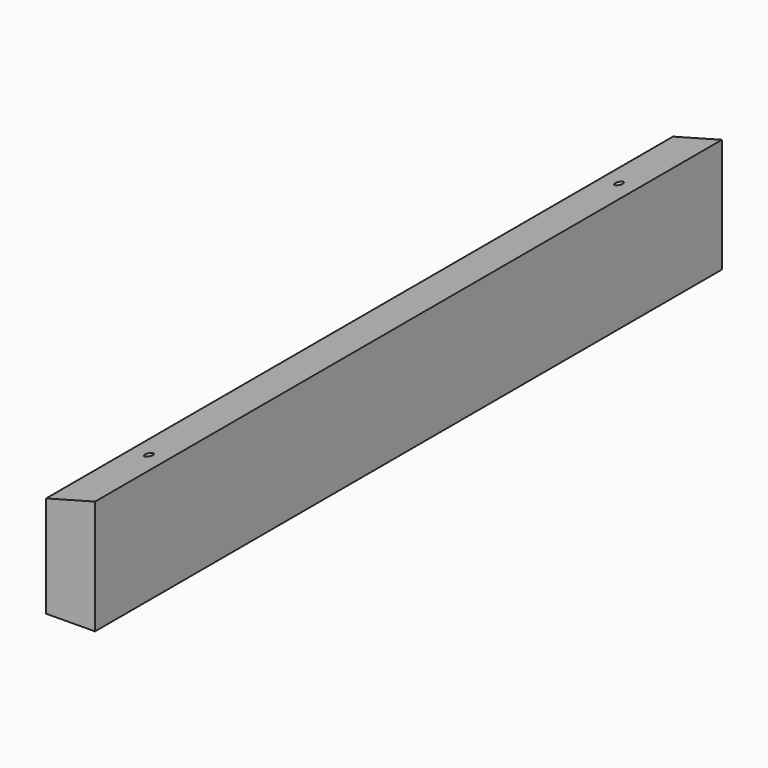
from build123d import *

# Parameters (mm, degrees)
F1_DEPTH = 609.6
F3_R     = 3.175
F4_DEPTH = 25.4


with BuildPart() as f1:
    # F0 (on Front) → F1 (new body)
    with BuildSketch(Plane.XZ):
        Polygon((-19.05, -44.7250839726), (19.0490069268, -44.45), (19.0490069268, 44.45), (-19.05, 34.2392), align=None)
    extrude(amount=F1_DEPTH)

    # F3 (on face) → F4 (cut)
    with BuildSketch(Plane(origin=(-9.8380204896, 0, 36.7080748598), x_dir=(0.9659118691, 0, 0.2588711284), z_dir=(-0.2588711284, 0, 0.9659118691))):
        with Locations((10.1847013869, -76.2)):
            Circle(F3_R)
        with Locations((10.1847013869, -533.4)):
            Circle(F3_R)
    extrude(amount=-F4_DEPTH, mode=Mode.SUBTRACT)


solid = f1.part
